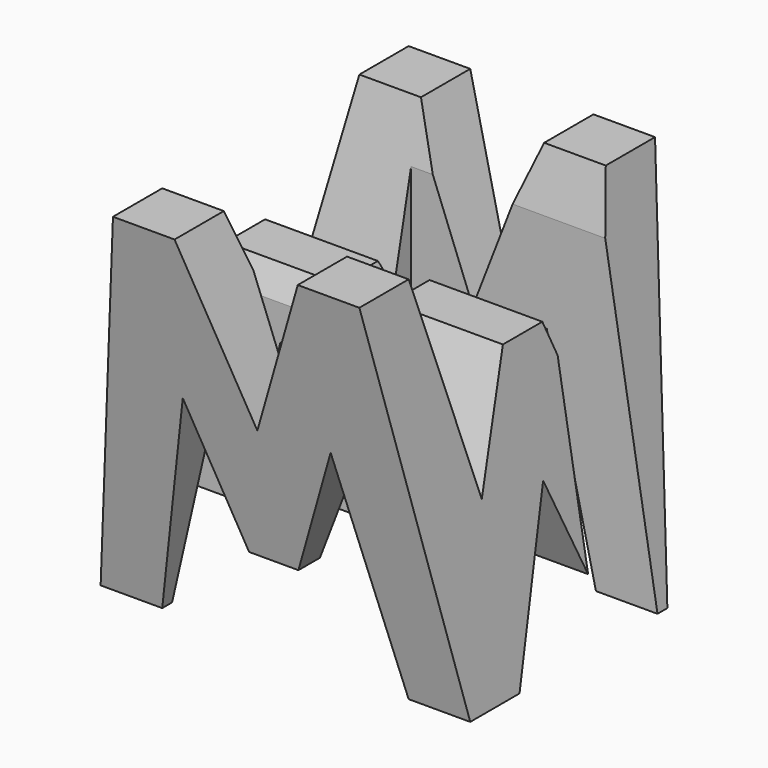
from build123d import *

# Parameters (mm, degrees)
F0_W      = 38.1
F0_H      = 38.1
F1_DEPTH  = 38.1
F6_DEPTH  = 38.1
F8_DEPTH  = 38.1
F9_W      = 25.4
F9_H      = 7.62
F10_DEPTH = 38.1


with BuildPart() as f1:
    # F0 (on Front) → F1 (new body)
    with BuildSketch(Plane.XZ):
        with Locations((19.05, 19.05)):
            Rectangle(F0_W, F0_H)
    extrude(amount=F1_DEPTH)

    # F5 (on offset) → F6 (cut)
    with BuildSketch(Plane.YZ.offset(38.1)):
        Polygon((-11.43, 15.013679), (-6.35, 38.1), (-31.75, 38.1), (-26.67, 17.235135), (-21.59, 28.575), (-16.51, 28.575), align=None)
        Polygon((0, 0), (0, 38.1), (-6.35, 0), align=None)
        Polygon((-25.4, 0), (-12.7, 0), (-19.05, 15.875), align=None)
        Polygon((-31.75, 0), (-38.1, 38.1), (-38.1, 0), align=None)
    extrude(amount=-F6_DEPTH, mode=Mode.SUBTRACT)

    # F7 (on offset) → F8 (cut)
    with BuildSketch(Plane.XZ.offset(38.1)):
        Polygon((0, 38.1), (0, 0), (6.35, 38.1), align=None)
        Polygon((25.4, 38.1), (12.7, 38.1), (19.05, 21.709906), align=None)
        Polygon((31.75, 38.1), (38.1, 0), (38.1, 38.1), align=None)
        Polygon((11.43, 22.225), (6.35, 0), (31.75, 0), (26.67, 22.225), (21.59, 9.009906), (16.51, 9.009906), align=None)
    extrude(amount=-F8_DEPTH, mode=Mode.SUBTRACT)

    # F9 (on offset) → F10 (cut)
    with BuildSketch(Plane.XY.offset(38.1)):
        with Locations((12.7, -26.67)):
            Rectangle(F9_W, F9_H)
        with Locations((25.4, -11.43)):
            Rectangle(F9_W, F9_H)
    extrude(amount=-F10_DEPTH, mode=Mode.SUBTRACT)


solid = f1.part
